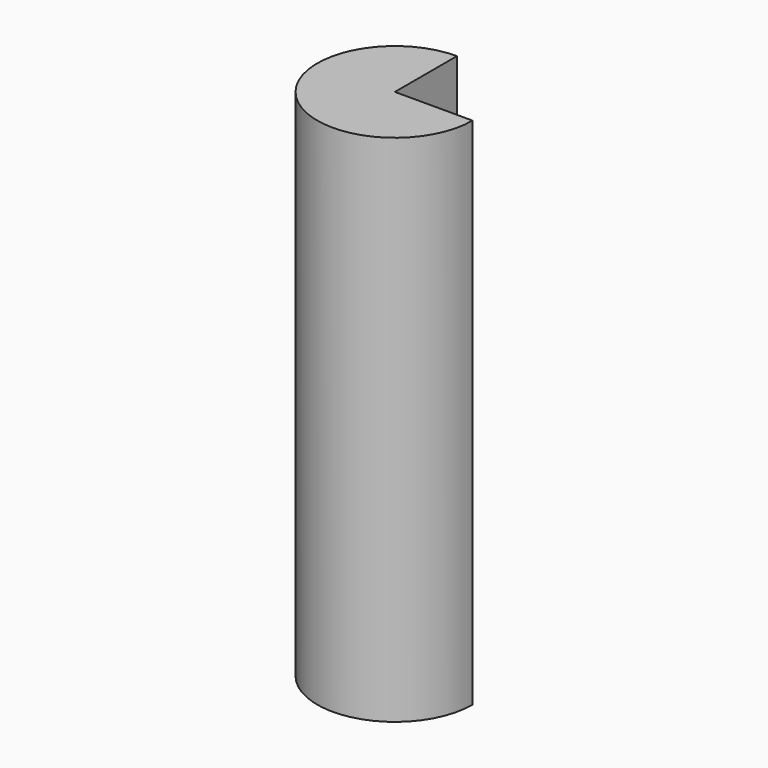
from build123d import *

# Parameters (mm, degrees)
F1_DEPTH = 200
F2_R     = 6.945732
F3_DEPTH = 91.314025


with BuildPart() as f1:
    # F0 (on Top) → F1 (new body)
    with BuildSketch(Plane.XY):
        with BuildLine():
            ThreePointArc((0, 30.184939), (-21.343975, -21.343975), (30.184939, 0))
            Line((30.184939, 0), (0, 0))
            Line((0, 0), (0, 30.184939))
        make_face()
    extrude(amount=F1_DEPTH)

    # F2 (on face) → F3 (cut)
    with BuildSketch(Plane.YZ):
        with Locations((15.042696, 180.935144)):
            Circle(F2_R)
    extrude(amount=-F3_DEPTH, mode=Mode.SUBTRACT)


solid = f1.part
